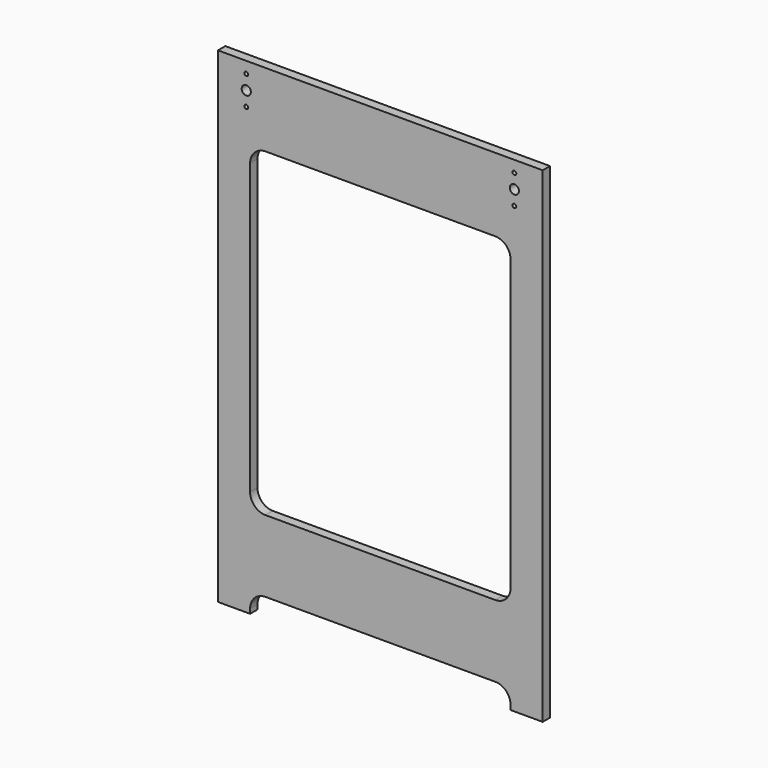
from build123d import *

# Parameters (mm, degrees)
F1_W     = 400
F1_H     = 524
F1_R     = 2.5
F1_R_2   = 6
F1_H_2   = 12
F1_H_3   = 60
F2_DEPTH = 12


with BuildPart() as f2:
    # F1 (on Front) → F2 (new body)
    with BuildSketch(Plane.XZ):
        with Locations((0, 112)):
            Rectangle(F1_W, F1_H)
        with Locations((-175, 321)):
            Circle(F1_R, mode=Mode.SUBTRACT)
        with Locations((-175, 340)):
            Circle(F1_R_2, mode=Mode.SUBTRACT)
        with Locations((-175, 359)):
            Circle(F1_R, mode=Mode.SUBTRACT)
        with BuildLine():
            Line((-150, 278), (150, 278))
            ThreePointArc((150, 278), (164.1421356237, 272.1421356237), (170, 258))
            Line((170, 258), (170, -120))
            ThreePointArc((170, -120), (164.1421356237, -134.1421356237), (150, -140))
            Line((150, -140), (-150, -140))
            ThreePointArc((-150, -140), (-164.1421356237, -134.1421356237), (-170, -120))
            Line((-170, -120), (-170, 258))
            ThreePointArc((-170, 258), (-164.1421356237, 272.1421356237), (-150, 278))
        make_face(mode=Mode.SUBTRACT)
        with Locations((175, 321)):
            Circle(F1_R, mode=Mode.SUBTRACT)
        with Locations((175, 340)):
            Circle(F1_R_2, mode=Mode.SUBTRACT)
        with Locations((175, 359)):
            Circle(F1_R, mode=Mode.SUBTRACT)
        Polygon((212, 374), (200, 374), (200, -150), (200, -162), (200, -222), (200, -234), (200, -260), (212, -260), align=None)
        Polygon((-200, -150), (-200, 374), (-212, 374), (-212, -260), (-200, -260), (-200, -234), (-200, -222), (-200, -162), align=None)
        with Locations((0, -156)):
            Rectangle(F1_W, F1_H_2)
        with Locations((0, -192)):
            Rectangle(F1_W, F1_H_3)
        Polygon((200, -234), (200, -222), (-200, -222), (-200, -234), (-150, -234), (150, -234), align=None)
        with BuildLine():
            Line((-200, -234), (-200, -260))
            Line((-200, -260), (-170, -260))
            Line((-170, -260), (-170, -254))
            ThreePointArc((-170, -254), (-164.1421356237, -239.8578643763), (-150, -234))
            Line((-150, -234), (-200, -234))
        make_face()
        with BuildLine():
            Line((170, -260), (200, -260))
            Line((200, -260), (200, -234))
            Line((200, -234), (150, -234))
            ThreePointArc((150, -234), (164.1421356237, -239.8578643763), (170, -254))
            Line((170, -254), (170, -260))
        make_face()
    extrude(amount=F2_DEPTH)


solid = f2.part
